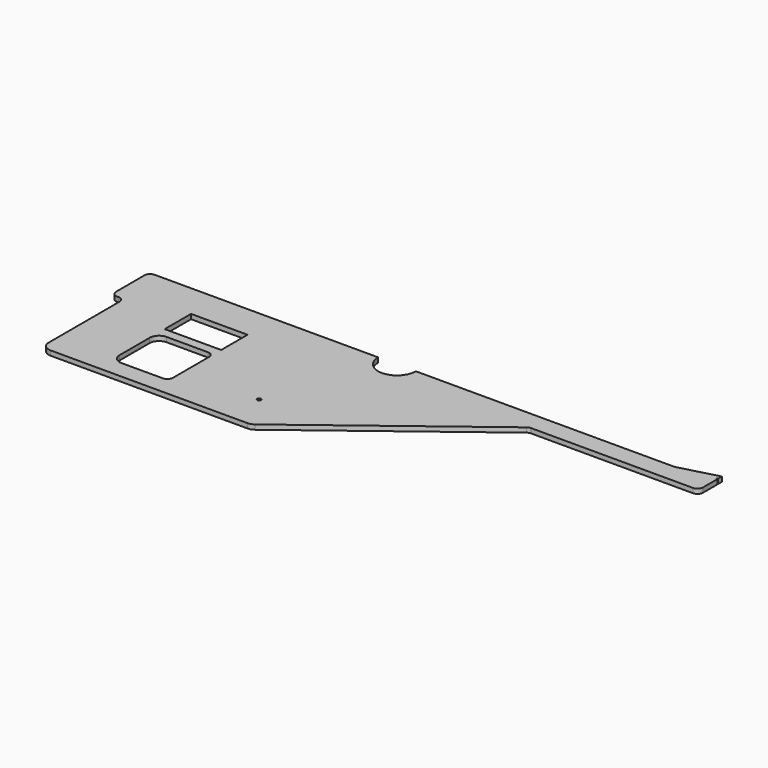
from build123d import *

# Parameters (mm, degrees)
F0_R     = 2
F1_DEPTH = 5


with BuildPart() as f1:
    # F0 (on Top) → F1 (new body)
    with BuildSketch(Plane.XY):
        with BuildLine():
            Line((380.941121, 34.832741), (380.941121, 53.832741))
            Line((380.941121, 53.832741), (379.941121, 53.832741))
            Line((379.941121, 53.832741), (379.941121, 54.832741))
            Line((379.941121, 54.832741), (380.941121, 54.832741))
            Line((380.941121, 54.832741), (380.941121, 59.832741))
            Line((380.941121, 59.832741), (339.609294, 48.832741))
            Line((339.609294, 48.832741), (64.608882, 48.839861))
            ThreePointArc((64.608882, 48.839861), (44.608805, 28.84687), (24.608885, 48.840017))
            Line((24.608885, 48.840017), (-212.835283, 48.847043))
            ThreePointArc((-212.835283, 48.847043), (-217.078024, 47.089739), (-218.835438, 42.847043))
            Line((-218.835438, 42.847043), (-218.835438, 4.847199))
            ThreePointArc((-218.835438, 4.847199), (-217.078079, 0.604558), (-212.835438, -1.152801))
            Line((-212.835438, -1.152801), (-211.391116, -1.152801))
            ThreePointArc((-211.391116, -1.152801), (-207.148476, -2.910161), (-205.391116, -7.152801))
            Line((-205.391116, -7.152801), (-205.391116, -101.152801))
            ThreePointArc((-205.391116, -101.152801), (-202.462184, -108.223869), (-195.391116, -111.152801))
            Line((-195.391116, -111.152801), (13.936032, -111.152801))
            ThreePointArc((13.936032, -111.152801), (17.1355, -110.627156), (19.998612, -109.105481))
            Line((19.998612, -109.105481), (199.329759, 27.604349))
            ThreePointArc((199.329759, 27.604349), (201.047626, 28.517354), (202.967308, 28.832741))
            Line((202.967308, 28.832741), (374.941121, 28.832741))
            ThreePointArc((374.941121, 28.832741), (379.183762, 30.590101), (380.941121, 34.832741))
        make_face()
        with Locations((-5.391116, -71.86413)):
            Circle(F0_R, mode=Mode.SUBTRACT)
        with BuildLine():
            Line((-135.391116, -32.15313), (-91.391116, -32.15313))
            ThreePointArc((-91.391116, -32.15313), (-87.148476, -33.91049), (-85.391116, -38.15313))
            Line((-85.391116, -38.15313), (-85.391116, -86.15313))
            ThreePointArc((-85.391116, -86.15313), (-87.148476, -90.395771), (-91.391116, -92.15313))
            Line((-91.391116, -92.15313), (-135.391116, -92.15313))
            ThreePointArc((-135.391116, -92.15313), (-142.462184, -89.224198), (-145.391116, -82.15313))
            Line((-145.391116, -82.15313), (-145.391116, -42.15313))
            ThreePointArc((-145.391116, -42.15313), (-142.462184, -35.082063), (-135.391116, -32.15313))
        make_face(mode=Mode.SUBTRACT)
        Polygon((-145.391116, 12.84687), (-91.391116, 12.84687), (-85.391116, 12.84687), (-85.391116, 6.84687), (-85.391116, -16.15313), (-85.391116, -22.15313), (-91.391116, -22.15313), (-145.391116, -22.15313), align=None, mode=Mode.SUBTRACT)
    extrude(amount=F1_DEPTH)


solid = f1.part
